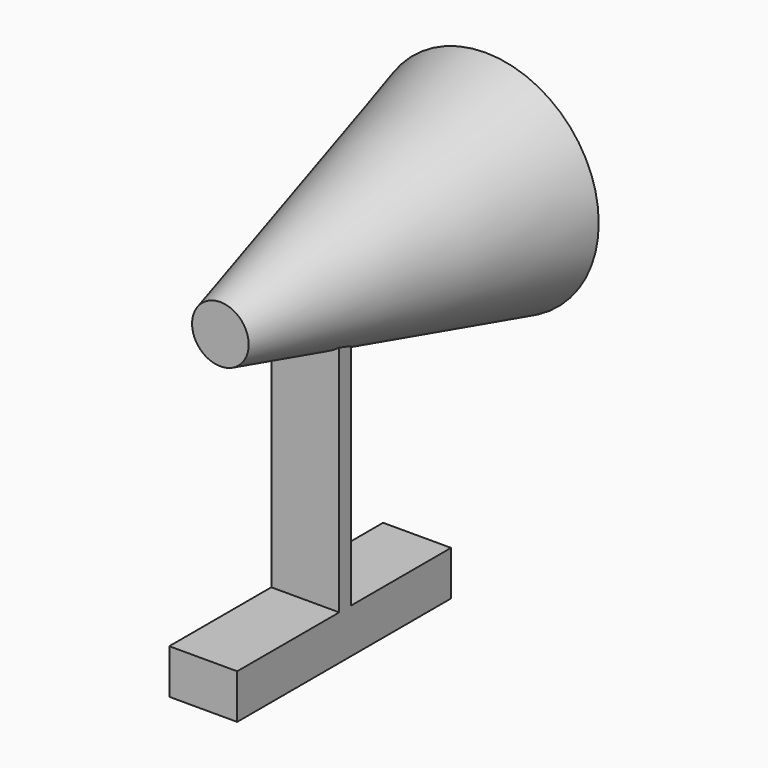
from build123d import *

# Parameters (mm, degrees)
F2_W     = 12.99806
F2_H     = 244.615898
F3_DEPTH = 30


with BuildPart() as f1:
    # F0 (on Right) → F1 (revolve)
    with BuildSketch(Plane.YZ):
        Polygon((-2.5, 0), (-2.5, 100), (-295.169565, 25), (-295.169565, 0), align=None)
    revolve(axis=Axis((0, -150, 0), (0, 1, 0)))

    # F2 (on Right) → F3 (join, symmetric)
    with BuildSketch(Plane.YZ):
        with Locations((-194.959186, -122.307949)):
            Rectangle(F2_W, F2_H)
        Polygon((-188.460156, -244.615898), (-201.458216, -244.615898), (-314.097643, -244.615898), (-314.097643, -283.99232), (-78.029469, -283.99232), (-78.029469, -244.615898), align=None)
    extrude(amount=F3_DEPTH, both=True)


solid = f1.part
